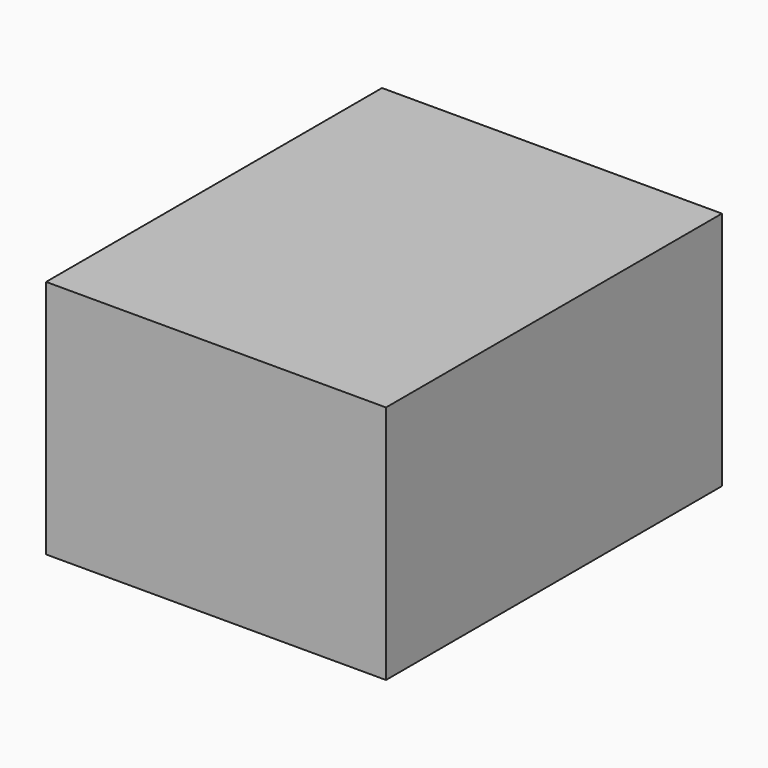
from build123d import *

# Parameters (mm, degrees)
F0_W     = 17
F0_H     = 12
F1_DEPTH = 21
F2_DEPTH = 14


with BuildPart() as f1:
    # F0 (on Front) → F1 (new body)
    with BuildSketch(Plane.XZ):
        with Locations((1.5, 0)):
            Rectangle(F0_W, F0_H)
        Polygon((-5.196152, 0), (-2.598076, 4.5), (2.598076, 4.5), (5.196152, 0), (2.598076, -4.5), (-2.598076, -4.5), align=None, mode=Mode.SUBTRACT)
        Polygon((2.598076, 4.5), (-2.598076, 4.5), (-5.196152, 0), (-2.598076, -4.5), (2.598076, -4.5), (5.196152, 0), align=None)
    extrude(amount=F1_DEPTH)

    # F0 (on Front) → F2 (cut)
    with BuildSketch(Plane.XZ):
        Polygon((2.598076, 4.5), (-2.598076, 4.5), (-5.196152, 0), (-2.598076, -4.5), (2.598076, -4.5), (5.196152, 0), align=None)
    extrude(amount=F2_DEPTH, mode=Mode.SUBTRACT)


solid = f1.part
